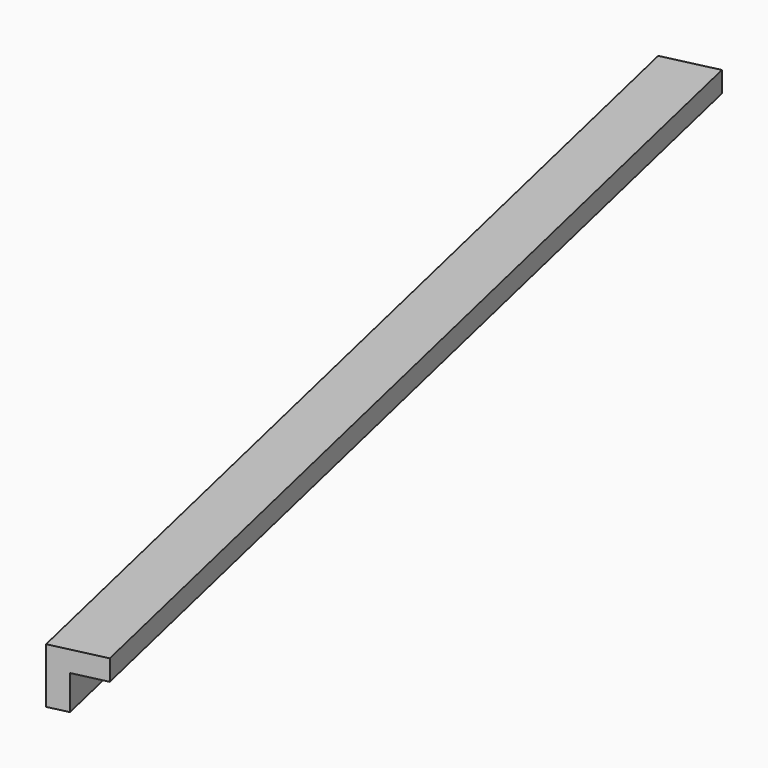
from build123d import *

# Parameters (mm, degrees)
BOX175_W               = 0.8
BOX175_H               = 16
BOX175_DEPTH           = 0.8
BOX176_W               = 0.8
BOX176_H               = 16
BOX176_DEPTH           = 0.8
CUT091_PLACEMENT_ANGLE = 193


with BuildPart() as cubo175:
    # Box175 → Box175 (new body)
    with BuildSketch(Plane.XY):
        with Locations((0.4, 8)):
            Rectangle(BOX175_W, BOX175_H)
    extrude(amount=BOX175_DEPTH)


with BuildPart() as obj1:
    # Box176 → Box176 (new body)
    with BuildSketch(Plane(origin=(0.3, 0, 0.3), x_dir=(1, 0, 0), z_dir=(0, 0, 1))):
        with Locations((0.4, 8)):
            Rectangle(BOX176_W, BOX176_H)
    extrude(amount=BOX176_DEPTH)

    # Cut091: cut Cubo175
    add(cubo175.part, mode=Mode.SUBTRACT)


with BuildPart() as obj1_1:
    # Cut091 placement: moved
    add(obj1.part.moved(Location((-178.4, 150.9, -1.45))).rotate(Axis((-178.4, 150.9, -1.45), (0, 0, 1)), CUT091_PLACEMENT_ANGLE))


solid = obj1_1.part
